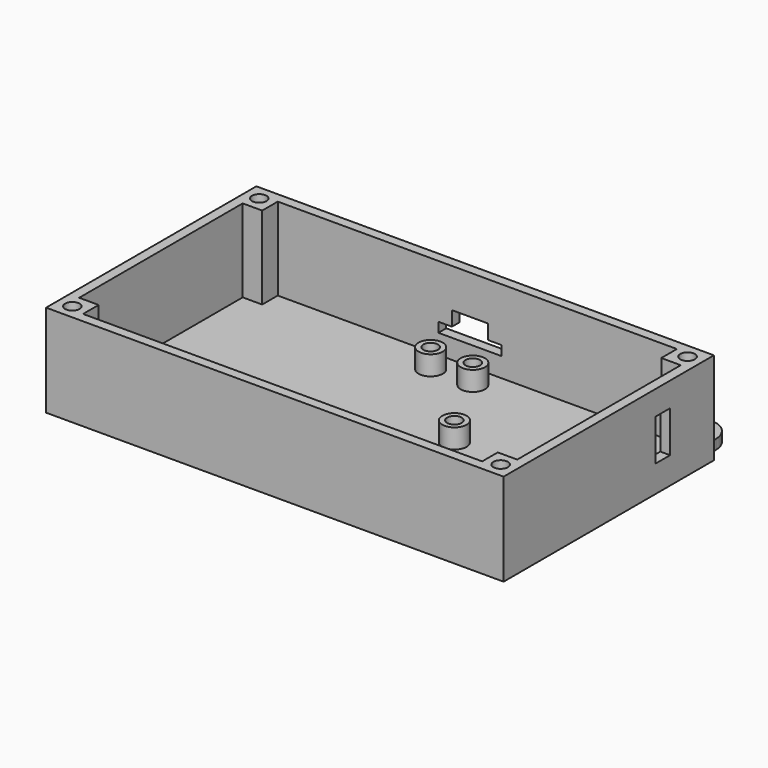
from build123d import *

# Parameters (mm, degrees)
EXTRUDE045_DEPTH     = 2
SKETCH030_R          = 1.5
EXTRUDE031_DEPTH     = 4
SKETCH031_R          = 2.5
EXTRUDE030_DEPTH     = 4
SKETCH024_R          = 2.5
EXTRUDE024_DEPTH     = 2
SKETCH025_R          = 1.5
EXTRUDE027_DEPTH     = 4
SKETCH026_R          = 2.5
EXTRUDE026_DEPTH     = 4
SKETCH029_R          = 1.5
EXTRUDE029_DEPTH     = 20
EXTRUDE001_DEPTH     = 3
SKETCH_W             = 12.96
SKETCH_H             = 14.18
SKETCH_R             = 0.25
SKETCH_R_2           = 1.65
EXTRUDE_DEPTH        = 2
SKETCH013_W          = 8.5
SKETCH013_H          = 3.76
EXTRUDE013_DEPTH     = 3.54
SKETCH014_W          = 5
SKETCH014_H          = 1.5
EXTRUDE014_DEPTH     = 2.97
SKETCH012_W          = 16.69
SKETCH012_H          = 12.65
EXTRUDE012_DEPTH     = 1.66
LINK_PLACEMENT_ANGLE = 90
SKETCH027_W          = 94
SKETCH027_H          = 54
EXTRUDE025_DEPTH     = 19


with BuildPart() as extrude_controllercable_hole:
    # Sketch044 → Extrude045 (new body)
    with BuildSketch(Plane.XZ):
        with BuildLine():
            Line((-3.5, 7), (3.5, 7))
            Line((3.5, 7), (3.5, 0))
            ThreePointArc((-3.5, 0), (0, -3.5), (3.5, 0))
            Line((-3.5, 0), (-3.5, 7))
        make_face()
    extrude(amount=EXTRUDE045_DEPTH)


with BuildPart() as extrude_controllercable_hole_1:
    # Extrude045 placement: moved
    add(extrude_controllercable_hole.part.moved(Location((24, 52, 23))))


with BuildPart() as obj1:
    # Sketch030 → Extrude031 (new body)
    with BuildSketch(Plane.XY):
        with Locations((2.15, 7.435)):
            Circle(SKETCH030_R)
        with Locations((10.81, 7.435)):
            Circle(SKETCH030_R)
    extrude(amount=EXTRUDE031_DEPTH)


with BuildPart() as obj2:
    # Sketch031 → Extrude030 (new body)
    with BuildSketch(Plane.XY):
        with Locations((2.15, 7.435)):
            Circle(SKETCH031_R)
        with Locations((10.81, 7.435)):
            Circle(SKETCH031_R)
    extrude(amount=EXTRUDE030_DEPTH)

    # Cut004: cut obj1
    add(obj1.part, mode=Mode.SUBTRACT)


with BuildPart() as obj2_1:
    # Cut004 placement: moved
    add(obj2.part.moved(Location((37, 37.9, 2))))


with BuildPart() as extrude_controllercase_base:
    # Sketch024 → Extrude024 (new body)
    with BuildSketch(Plane.XY):
        with BuildLine():
            Line((0, 0), (90, 0))
            Line((90, 0), (90, 50))
            Line((90, 50), (90, 55))
            ThreePointArc((90, 55), (85.5, 59.5), (81, 55))
            Line((81, 50), (81, 55))
            Line((81, 50), (9, 50))
            Line((9, 50), (9, 55))
            ThreePointArc((9, 55), (4.5, 59.5), (0, 55))
            Line((0, 50), (0, 55))
            Line((0, 50), (0, 0))
        make_face()
        with Locations((85.5, 55)):
            Circle(SKETCH024_R, mode=Mode.SUBTRACT)
        with Locations((4.5, 55)):
            Circle(SKETCH024_R, mode=Mode.SUBTRACT)
    extrude(amount=EXTRUDE024_DEPTH)


with BuildPart() as extrude_mainboardcase_joystick_hole:
    # Sketch025 → Extrude027 (new body)
    with BuildSketch(Plane(origin=(53, 3, 0), x_dir=(1, 0, 0), z_dir=(0, 0, 1))):
        with Locations((-48, 19.88)):
            Circle(SKETCH025_R)
        with Locations((-21.99, 19.88)):
            Circle(SKETCH025_R)
        with Locations((-48.01, 0.31)):
            Circle(SKETCH025_R)
        with Locations((-21.99, 0.31)):
            Circle(SKETCH025_R)
    extrude(amount=EXTRUDE027_DEPTH)


with BuildPart() as fusion_controllercase_base:
    # Sketch026 → Extrude026 (new body)
    with BuildSketch(Plane.XY):
        with Locations((5, 22.88)):
            Circle(SKETCH026_R)
        with Locations((31.01, 22.88)):
            Circle(SKETCH026_R)
        with Locations((31.01, 3.31)):
            Circle(SKETCH026_R)
        with Locations((4.99, 3.31)):
            Circle(SKETCH026_R)
    extrude(amount=EXTRUDE026_DEPTH)

    # Cut001: cut Extrude_MainBoardCase_JoyStick_Hole
    add(extrude_mainboardcase_joystick_hole.part, mode=Mode.SUBTRACT)


with BuildPart() as fusion_controllercase_base_1:
    # Cut001 placement: moved
    add(fusion_controllercase_base.part.moved(Location((53, 5, 2))))

    # Fusion007: union obj2, Extrude_ControllerCase_Base
    add(obj2_1.part)
    add(extrude_controllercase_base.part)


with BuildPart() as obj3:
    # Sketch029 → Extrude029 (new body)
    with BuildSketch(Plane.XY):
        with Locations((1, 49)):
            Circle(SKETCH029_R)
        with Locations((1, 1)):
            Circle(SKETCH029_R)
        with Locations((89, 1)):
            Circle(SKETCH029_R)
        with Locations((89, 49)):
            Circle(SKETCH029_R)
    extrude(amount=EXTRUDE029_DEPTH)


with BuildPart() as obj3_1:
    # Extrude029 placement: moved
    add(obj3.part.moved(Location((0, 0, 2))))


with BuildPart() as obj4:
    # Sketch001 → Extrude001 (new body)
    with BuildSketch(Plane.XY):
        Polygon((10.18, 14.18), (10.18, 8.98), (2.78, 8.98), (2.78, 14.18), (6.48, 14.18), align=None)
    extrude(amount=EXTRUDE001_DEPTH)


with BuildPart() as obj4_1:
    # Extrude001 placement: moved
    add(obj4.part.moved(Location((0, 0, 2))))


with BuildPart() as obj5:
    # Sketch → Extrude (new body)
    with BuildSketch(Plane.XY):
        with Locations((6.48, 7.09)):
            Rectangle(SKETCH_W, SKETCH_H)
        with Locations((1, 1)):
            Circle(SKETCH_R, mode=Mode.SUBTRACT)
        with Locations((3.74, 1)):
            Circle(SKETCH_R, mode=Mode.SUBTRACT)
        with Locations((6.48, 1)):
            Circle(SKETCH_R, mode=Mode.SUBTRACT)
        with Locations((9.22, 1)):
            Circle(SKETCH_R, mode=Mode.SUBTRACT)
        with Locations((11.96, 1)):
            Circle(SKETCH_R, mode=Mode.SUBTRACT)
        with Locations((2.15, 7.435)):
            Circle(SKETCH_R_2, mode=Mode.SUBTRACT)
        with Locations((10.81, 7.435)):
            Circle(SKETCH_R_2, mode=Mode.SUBTRACT)
    extrude(amount=EXTRUDE_DEPTH)

    # Fusion: union obj4
    add(obj4_1.part)


with BuildPart() as obj5_1:
    # Fusion placement: moved
    add(obj5.part.moved(Location((-20, 0, 0))))


with BuildPart() as obj5_2:
    # Link002 placement: moved
    add(obj5_1.part.moved(Location((57, 37.9, 6))))


with BuildPart() as extrude_switch_house:
    # Sketch013 → Extrude013 (new body)
    with BuildSketch(Plane.XY):
        with Locations((4.25, 1.88)):
            Rectangle(SKETCH013_W, SKETCH013_H)
    extrude(amount=EXTRUDE013_DEPTH)


with BuildPart() as extrude_switch:
    # Sketch014 → Extrude014 (new body)
    with BuildSketch(Plane.XY):
        with Locations((4.25, 1.88)):
            Rectangle(SKETCH014_W, SKETCH014_H)
    extrude(amount=EXTRUDE014_DEPTH)


with BuildPart() as extrude_switch_1:
    # Extrude014 placement: moved
    add(extrude_switch.part.moved(Location((0, 0, 3.54))))


with BuildPart() as obj6:
    # Sketch012 → Extrude012 (new body)
    with BuildSketch(Plane(origin=(4, 2, 0), x_dir=(1, 0, 0), z_dir=(0, 0, 1))):
        Rectangle(SKETCH012_W, SKETCH012_H)
    extrude(amount=-EXTRUDE012_DEPTH)

    # Fusion004: union Extrude_Switch_house, Extrude_Switch_
    add(extrude_switch_house.part)
    add(extrude_switch_1.part)


with BuildPart() as obj6_1:
    # Fusion004 placement: moved
    add(obj6.part.moved(Location((-150, 0, 0))))


with BuildPart() as obj6_2:
    # Link placement: moved
    add(obj6_1.part.moved(Location((89, 37, -136))).rotate(Axis((89, 37, -136), (0, 1, 0)), LINK_PLACEMENT_ANGLE))


with BuildPart() as cut_controllercase_bottom:
    # Sketch027 → Extrude025 (new body)
    with BuildSketch(Plane.XY):
        with Locations((45, 25)):
            Rectangle(SKETCH027_W, SKETCH027_H)
        Polygon((86, 50), (4, 50), (4, 46), (0, 46), (0, 4), (4, 4), (4, 0), (86, 0), (86, 4), (90, 4), (90, 46), (86, 46), align=None, mode=Mode.SUBTRACT)
    extrude(amount=EXTRUDE025_DEPTH)

    # Cut005: cut obj6
    add(obj6_2.part, mode=Mode.SUBTRACT)

    # Cut006: cut obj5
    add(obj5_2.part, mode=Mode.SUBTRACT)

    # Cut007: cut obj3
    add(obj3_1.part, mode=Mode.SUBTRACT)

    # Fusion008: union Fusion_ControllerCase_Base
    add(fusion_controllercase_base_1.part)

    # Cut011: cut Extrude_ControllerCable_Hole
    add(extrude_controllercable_hole_1.part, mode=Mode.SUBTRACT)


solid = cut_controllercase_bottom.part
